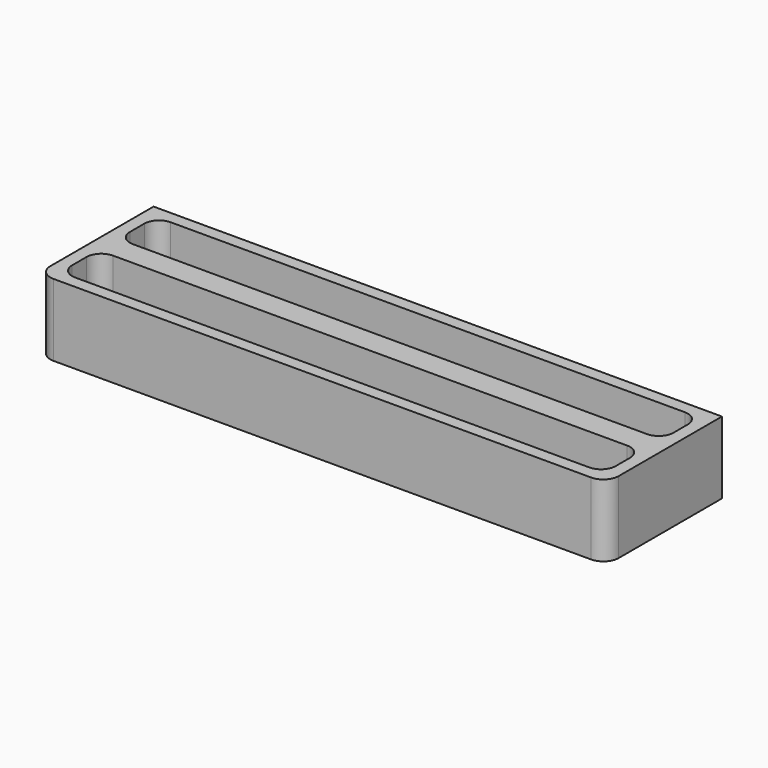
from build123d import *

# Parameters (mm, degrees)
SKETCH002_W     = 126
SKETCH002_H     = 16
PAD001_DEPTH    = 16
SKETCH003_W     = 120.5
SKETCH003_H     = 10.5
POCKET001_DEPTH = 12.64
FILLET001_R     = 3.25
FILLET003_R     = 3.4


with BuildPart() as obj1:
    # Sketch002 → Pad001 (new body)
    with BuildSketch(Plane.XY):
        Rectangle(SKETCH002_W, SKETCH002_H)
    extrude(amount=PAD001_DEPTH)

    # Sketch003 (on DatumPlane) → Pocket001 (cut)
    with BuildSketch(Plane.XY.offset(16)):
        Rectangle(SKETCH003_W, SKETCH003_H)
    extrude(amount=-POCKET001_DEPTH, mode=Mode.SUBTRACT)

    # Fillet001
    fillet001_edges = [obj1.edges().sort_by_distance(p)[0] for p in [
        (-60.25, 5.25, 9.68),
        (-60.25, -5.25, 9.68),
        (60.25, -5.25, 9.68),
        (60.25, 5.25, 9.68),
    ]]
    fillet(fillet001_edges, radius=FILLET001_R)


with BuildPart() as fillet003:
    # Body001003 base: copy of obj1
    add(obj1.part)


with BuildPart() as fillet003_1:
    # Body001003 placement: moved
    add(fillet003.part.moved(Location((0, -16, 0))))

    # Fillet003
    fillet003_edges = [fillet003_1.edges().sort_by_distance(p)[0] for p in [
        (-63, -24, 8),
        (63, -24, 8),
    ]]
    fillet(fillet003_edges, radius=FILLET003_R)


with BuildPart() as obj2:
    # Fusion base: copy of obj1
    add(obj1.part)

    # Fusion: union Fillet003
    add(fillet003_1.part)


solid = obj2.part
